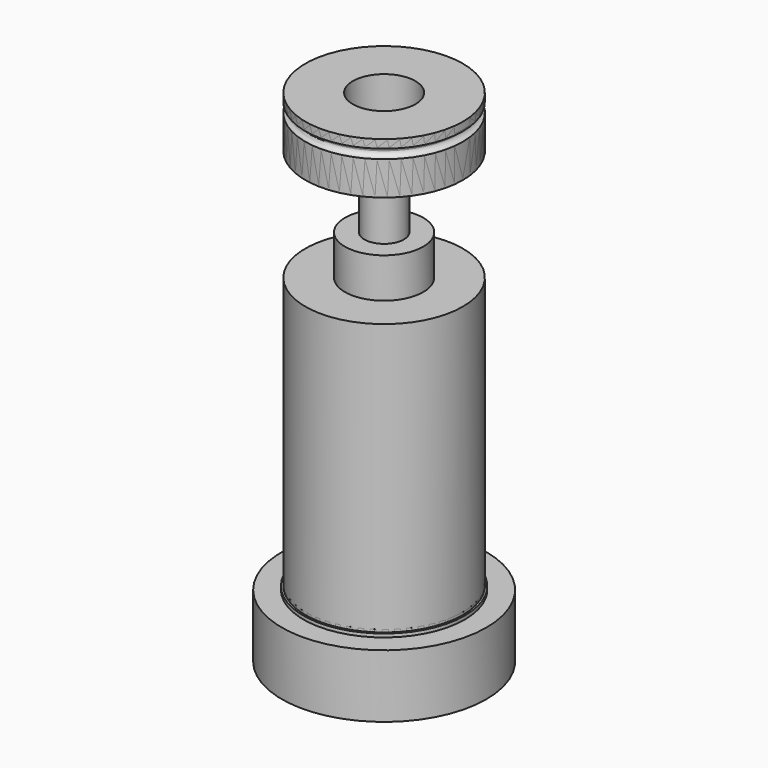
from build123d import *

# Parameters (mm, degrees)
SKETCH_R        = 13.02
PAD_DEPTH       = 11.43
SKETCH001_R     = 11.13
PAD001_DEPTH    = 6.35
SKETCH002_R     = 9.5504
PAD002_DEPTH    = 6.35
SKETCH003_R     = 8.18515
PAD003_DEPTH    = 6.35
SKETCH004_R     = 7.0358
PAD004_DEPTH    = 6.35
SKETCH005_R     = 6.0325
PAD005_DEPTH    = 6.35
SKETCH006_R     = 5.1689
PAD006_DEPTH    = 6.35
SKETCH007_R     = 4.4069
PAD007_DEPTH    = 6.35
SKETCH008_R     = 3.7973
PAD008_DEPTH    = 6.35
SKETCH009_R     = 3.2512
PAD009_DEPTH    = 12.06
SKETCH010_R     = 2.7512
PAD010_DEPTH    = 2.25
SKETCH011_R     = 5.175
POCKET_DEPTH    = 7
SKETCH012_R     = 1.84
POCKET001_DEPTH = 69.541
SKETCH015_R     = 0.89
SKETCH013_R     = 13.0175
SKETCH013_R_2   = 3.18
PAD011_DEPTH    = 8.255
SKETCH014_R     = 5.175
POCKET002_DEPTH = 6
SKETCH016_R     = 0.89
SKETCH017_R     = 13.0175
PAD012_DEPTH    = 55.88
SKETCH018_R     = 6.477
PAD013_DEPTH    = 6.604
SKETCH019_R     = 3.2639
PAD014_DEPTH    = 12.065
SKETCH020_R     = 2.7639
PAD015_DEPTH    = 2.25
SKETCH021_R     = 5.175
POCKET003_DEPTH = 7
SKETCH022_R     = 1.84
POCKET004_DEPTH = 69.8
SKETCH023_R     = 0.89
SKETCH024_R     = 13.0175
SKETCH024_R_2   = 3.18
PAD016_DEPTH    = 8.255
SKETCH025_R     = 5.175
POCKET005_DEPTH = 6
SKETCH026_R     = 0.89
SKETCH027_R     = 13.335
PAD017_DEPTH    = 11
SKETCH033_R     = 16.9164
PAD019_DEPTH    = 10.43
SKETCH038_R     = 4.5
PAD021_DEPTH    = 10
SKETCH039_R     = 1.84
POCKET010_DEPTH = 10.001
SKETCH040_R     = 3.5
POCKET011_DEPTH = 2


with BuildPart() as body:
    # Sketch → Pad (new body)
    with BuildSketch(Plane.XY):
        Circle(SKETCH_R)
    extrude(amount=PAD_DEPTH)

    # Sketch001 (on Face3 of Pad) → Pad001 (join)
    with BuildSketch(Plane.XY.offset(11.43)):
        Circle(SKETCH001_R)
    extrude(amount=PAD001_DEPTH)

    # Sketch002 (on Face5 of Pad001) → Pad002 (join)
    with BuildSketch(Plane.XY.offset(17.78)):
        Circle(SKETCH002_R)
    extrude(amount=PAD002_DEPTH)

    # Sketch003 (on Face7 of Pad002) → Pad003 (join)
    with BuildSketch(Plane.XY.offset(24.13)):
        Circle(SKETCH003_R)
    extrude(amount=PAD003_DEPTH)

    # Sketch004 (on Face9 of Pad003) → Pad004 (join)
    with BuildSketch(Plane.XY.offset(30.48)):
        Circle(SKETCH004_R)
    extrude(amount=PAD004_DEPTH)

    # Sketch005 (on Face11 of Pad004) → Pad005 (join)
    with BuildSketch(Plane.XY.offset(36.83)):
        Circle(SKETCH005_R)
    extrude(amount=PAD005_DEPTH)

    # Sketch006 (on Face13 of Pad005) → Pad006 (join)
    with BuildSketch(Plane.XY.offset(43.18)):
        Circle(SKETCH006_R)
    extrude(amount=PAD006_DEPTH)

    # Sketch007 (on Face15 of Pad006) → Pad007 (join)
    with BuildSketch(Plane.XY.offset(49.53)):
        Circle(SKETCH007_R)
    extrude(amount=PAD007_DEPTH)

    # Sketch008 (on Face17 of Pad007) → Pad008 (join)
    with BuildSketch(Plane.XY.offset(55.88)):
        Circle(SKETCH008_R)
    extrude(amount=PAD008_DEPTH)

    # Sketch009 (on Face19 of Pad008) → Pad009 (join)
    with BuildSketch(Plane.XY.offset(62.23)):
        Circle(SKETCH009_R)
    extrude(amount=PAD009_DEPTH)

    # Sketch010 (on Face21 of Pad009) → Pad010 (join)
    with BuildSketch(Plane.XY.offset(74.29)):
        Circle(SKETCH010_R)
    extrude(amount=PAD010_DEPTH)

    # Sketch011 (on Face2 of Pad010) → Pocket (cut)
    with BuildSketch(Plane(origin=(0, 0, 0), x_dir=(1, 0, 0), z_dir=(0, 0, -1))):
        Circle(SKETCH011_R)
    extrude(amount=-POCKET_DEPTH, mode=Mode.SUBTRACT)

    # Sketch012 (on Face6 of Pocket) → Pocket001 (cut, through all)
    with BuildSketch(Plane(origin=(0, 0, 7), x_dir=(1, 0, 0), z_dir=(0, 0, -1))):
        Circle(SKETCH012_R)
    extrude(amount=-POCKET001_DEPTH, mode=Mode.SUBTRACT)

    # Sketch015 → Groove (revolve, cut)
    with BuildSketch(Plane.XZ):
        with Locations((-13.0175, 2.032)):
            Circle(SKETCH015_R)
    revolve(axis=Axis((0, 0, 0), (0, 0, 1)), mode=Mode.SUBTRACT)


with BuildPart() as body001:
    # Sketch013 (on Face1 of CopyPocket001) → Pad011 (new body)
    with BuildSketch(Plane.XY.offset(74.295)):
        Circle(SKETCH013_R)
        Circle(SKETCH013_R_2, mode=Mode.SUBTRACT)
    extrude(amount=PAD011_DEPTH)

    # Sketch014 (on Face4 of Pad011) → Pocket002 (cut)
    with BuildSketch(Plane.XY.offset(82.55)):
        Circle(SKETCH014_R)
    extrude(amount=-POCKET002_DEPTH, mode=Mode.SUBTRACT)

    # Sketch016 → Groove001 (revolve, cut)
    with BuildSketch(Plane.XZ):
        with Locations((-13.0175, 80.518)):
            Circle(SKETCH016_R)
    revolve(axis=Axis((0, 0, 0), (0, 0, 1)), mode=Mode.SUBTRACT)


with BuildPart() as body002:
    # Sketch017 → Pad012 (new body)
    with BuildSketch(Plane.XY):
        Circle(SKETCH017_R)
    extrude(amount=PAD012_DEPTH)

    # Sketch018 (on Face3 of Pad012) → Pad013 (join)
    with BuildSketch(Plane.XY.offset(55.88)):
        Circle(SKETCH018_R)
    extrude(amount=PAD013_DEPTH)

    # Sketch019 (on Face5 of Pad013) → Pad014 (join)
    with BuildSketch(Plane.XY.offset(62.484)):
        Circle(SKETCH019_R)
    extrude(amount=PAD014_DEPTH)

    # Sketch020 (on Face7 of Pad014) → Pad015 (join)
    with BuildSketch(Plane.XY.offset(74.549)):
        Circle(SKETCH020_R)
    extrude(amount=PAD015_DEPTH)

    # Sketch021 (on Face2 of Pad015) → Pocket003 (cut)
    with BuildSketch(Plane(origin=(0, 0, 0), x_dir=(1, 0, 0), z_dir=(0, 0, -1))):
        Circle(SKETCH021_R)
    extrude(amount=-POCKET003_DEPTH, mode=Mode.SUBTRACT)

    # Sketch022 (on Face6 of Pocket003) → Pocket004 (cut, through all)
    with BuildSketch(Plane(origin=(0, 0, 7), x_dir=(1, 0, 0), z_dir=(0, 0, -1))):
        Circle(SKETCH022_R)
    extrude(amount=-POCKET004_DEPTH, mode=Mode.SUBTRACT)

    # Sketch023 → Groove002 (revolve, cut)
    with BuildSketch(Plane.XZ):
        with Locations((-13.0175, 2.032)):
            Circle(SKETCH023_R)
    revolve(axis=Axis((0, 0, 0), (0, 0, 1)), mode=Mode.SUBTRACT)


with BuildPart() as body003:
    # Sketch024 (on Face1 of CopyGroove002) → Pad016 (new body)
    with BuildSketch(Plane.XY.offset(74.549)):
        Circle(SKETCH024_R)
        Circle(SKETCH024_R_2, mode=Mode.SUBTRACT)
    extrude(amount=PAD016_DEPTH)

    # Sketch025 (on Face4 of Pad016) → Pocket005 (cut)
    with BuildSketch(Plane.XY.offset(82.804)):
        Circle(SKETCH025_R)
    extrude(amount=-POCKET005_DEPTH, mode=Mode.SUBTRACT)

    # Sketch026 → Groove003 (revolve, cut)
    with BuildSketch(Plane.XZ):
        with Locations((-13.0175, 80.772)):
            Circle(SKETCH026_R)
    revolve(axis=Axis((0, 0, 0), (0, 0, 1)), mode=Mode.SUBTRACT)


with BuildPart() as wheel_e:
    # Sketch027 → Pad017 (new body)
    with BuildSketch(Plane.XY):
        Circle(SKETCH027_R)
    extrude(amount=PAD017_DEPTH)


with BuildPart() as wheel_c:
    # Sketch033 → Pad019 (new body)
    with BuildSketch(Plane.XY):
        Circle(SKETCH033_R)
    extrude(amount=PAD019_DEPTH)


with BuildPart() as thumb_screw:
    # Sketch038 → Pad021 (new body)
    with BuildSketch(Plane.XY):
        Circle(SKETCH038_R)
    extrude(amount=PAD021_DEPTH)

    # Sketch039 (on Face2 of Pad021) → Pocket010 (cut, through all)
    with BuildSketch(Plane(origin=(0, 0, 0), x_dir=(1, 0, 0), z_dir=(0, 0, -1))):
        Circle(SKETCH039_R)
    extrude(amount=-POCKET010_DEPTH, mode=Mode.SUBTRACT)

    # Sketch040 (on Face3 of Pocket010) → Pocket011 (cut)
    with BuildSketch(Plane.XY.offset(10)):
        Circle(SKETCH040_R)
    extrude(amount=-POCKET011_DEPTH, mode=Mode.SUBTRACT)

    # Sketch041 → Groove006 (revolve, cut)
    with BuildSketch(Plane.XZ):
        with BuildLine():
            ThreePointArc((-2.625, 5.125), (-4.5, 7), (-6.375, 5.125))
            Line((-6.375, 5.125), (-6.375, 2.875))
            ThreePointArc((-6.375, 2.875), (-4.5, 1), (-2.625, 2.875))
            Line((-2.625, 5.125), (-2.625, 2.875))
        make_face()
    revolve(axis=Axis((0, 0, 0), (0, 0, 1)), mode=Mode.SUBTRACT)


solid = Compound([body.part, body001.part, body002.part, body003.part, wheel_e.part, wheel_c.part, thumb_screw.part])
